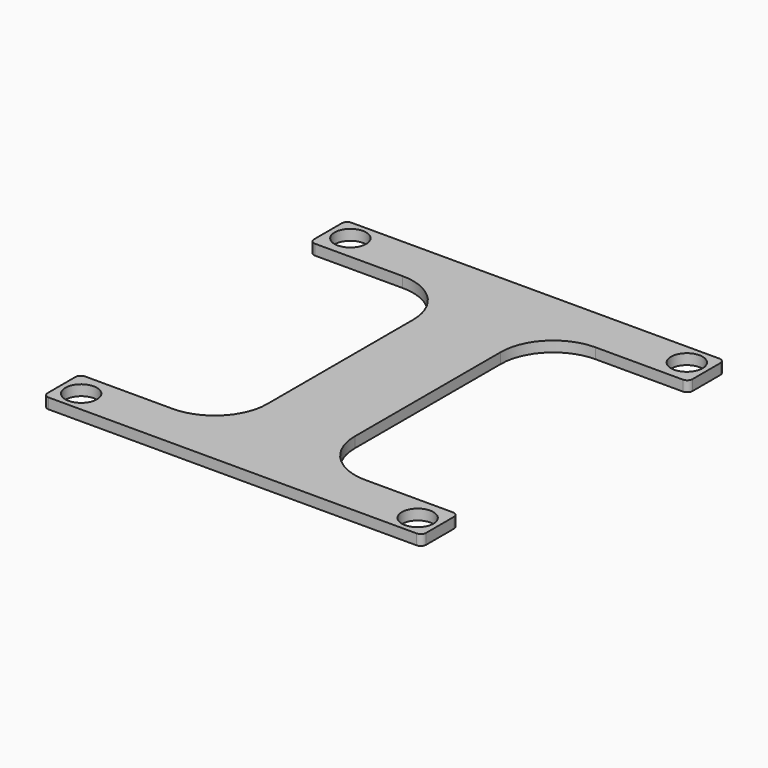
from build123d import *

# Parameters (mm, degrees)
F0_R     = 1.5
F1_DEPTH = 1


with BuildPart() as f1:
    # F0 (on Top) → F1 (new body)
    with BuildSketch(Plane.XY):
        with BuildLine():
            Line((-17.494214, -18), (17.494214, -18))
            ThreePointArc((17.494214, -18), (17.851859, -17.851859), (18, -17.494214))
            Line((18, -17.494214), (18, -14.173142))
            ThreePointArc((18, -14.173142), (17.851859, -13.815498), (17.494214, -13.667356))
            Line((17.494214, -13.667356), (9.165291, -13.667356))
            ThreePointArc((9.165291, -13.667356), (5.629757, -12.20289), (4.165291, -8.667356))
            Line((4.165291, -8.667356), (4.165291, 8.667356))
            ThreePointArc((4.165291, 8.667356), (5.629757, 12.20289), (9.165291, 13.667356))
            Line((9.165291, 13.667356), (17.494214, 13.667356))
            ThreePointArc((17.494214, 13.667356), (17.851859, 13.815498), (18, 14.173142))
            Line((18, 14.173142), (18, 17.494214))
            ThreePointArc((18, 17.494214), (17.851859, 17.851859), (17.494214, 18))
            Line((17.494214, 18), (-17.494214, 18))
            ThreePointArc((-17.494214, 18), (-17.851859, 17.851859), (-18, 17.494214))
            Line((-18, 17.494214), (-18, 14.173142))
            ThreePointArc((-18, 14.173142), (-17.851859, 13.815498), (-17.494214, 13.667356))
            Line((-17.494214, 13.667356), (-9.165291, 13.667356))
            ThreePointArc((-9.165291, 13.667356), (-5.629757, 12.20289), (-4.165291, 8.667356))
            Line((-4.165291, 8.667356), (-4.165291, -8.667356))
            ThreePointArc((-4.165291, -8.667356), (-5.629757, -12.20289), (-9.165291, -13.667356))
            Line((-9.165291, -13.667356), (-17.494214, -13.667356))
            ThreePointArc((-17.494214, -13.667356), (-17.851859, -13.815498), (-18, -14.173142))
            Line((-18, -14.173142), (-18, -17.494214))
            ThreePointArc((-18, -17.494214), (-17.851859, -17.851859), (-17.494214, -18))
        make_face()
        with Locations((-16, -16)):
            Circle(F0_R, mode=Mode.SUBTRACT)
        with Locations((16, -16)):
            Circle(F0_R, mode=Mode.SUBTRACT)
        with Locations((-16, 16)):
            Circle(F0_R, mode=Mode.SUBTRACT)
        with Locations((16, 16)):
            Circle(F0_R, mode=Mode.SUBTRACT)
    extrude(amount=F1_DEPTH)


solid = f1.part
